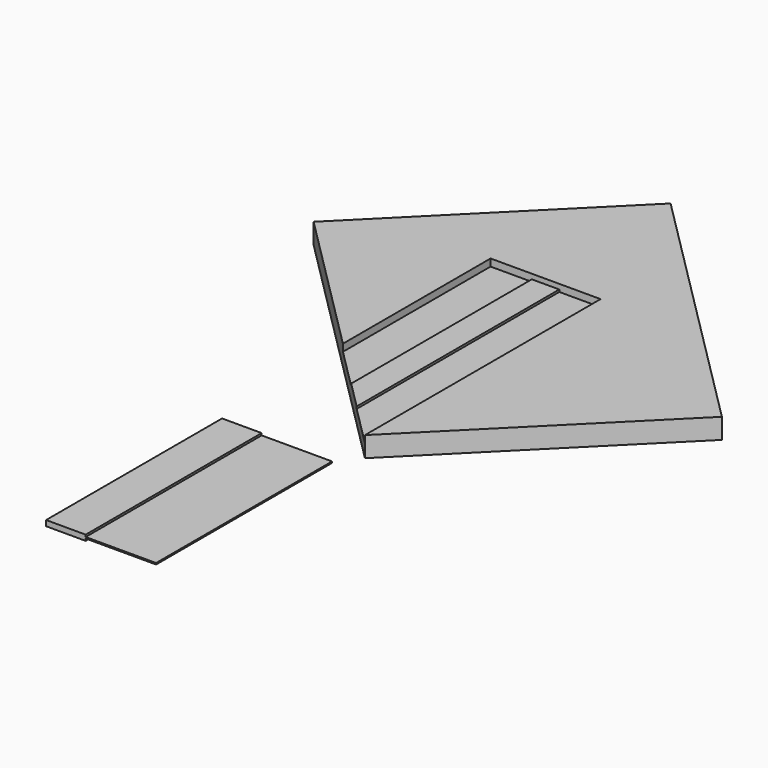
from build123d import *

# Parameters (mm, degrees)
F1_W          = 7.2
F1_H          = 40
F3_DEPTH      = 0.5
F3_DEPTH_BACK = 0.5
F2_W          = 12.8
F2_H          = 40
F4_DEPTH      = 0.125
F4_DEPTH_BACK = 0.125
F6_DEPTH      = 2.4
F6_DEPTH_BACK = 1.3
F8_DEPTH      = 1.3
F10_DEPTH     = 0.4


with BuildPart() as f3:
    # F1 (on Top) → F3 (new body, two sides)
    with BuildSketch(Plane.XY) as f3_sk:
        with Locations((-16.4, -43.0259331628)):
            Rectangle(F1_W, F1_H)
    extrude(amount=F3_DEPTH)
    extrude(f3_sk.sketch, amount=-F3_DEPTH_BACK)

    # F2 (on Top) → F4 (join, two sides)
    with BuildSketch(Plane.XY) as f4_sk:
        with Locations((-6.4, -43.0259331628)):
            Rectangle(F2_W, F2_H)
    extrude(amount=F4_DEPTH)
    extrude(f4_sk.sketch, amount=-F4_DEPTH_BACK)


with BuildPart() as f6:
    # F5 (on Top) → F6 (new body, two sides)
    with BuildSketch(Plane.XY) as f6_sk:
        Polygon((-10.6066017178, 67.1751442127), (-46.6690475583, 31.1126983722), (0, -15.5563491861), (36.0624458405, 20.5060966544), align=None)
    extrude(amount=-F6_DEPTH)
    extrude(f6_sk.sketch, amount=F6_DEPTH_BACK)

    # F7 (on Top) → F8 (cut)
    with BuildSketch(Plane.XY):
        Polygon((0, -15.5563491861), (0, 38), (-20, 38), (-20, 4.4436508139), align=None)
    extrude(amount=F8_DEPTH, mode=Mode.SUBTRACT)

    # F9 (on Top) → F10 (join)
    with BuildSketch(Plane.XY):
        Polygon((-7.5, 38), (-12.5, 38), (-12.5, -3.0563491861), (-7.5, -8.0563491861), align=None)
    extrude(amount=F10_DEPTH)


solid = Compound([f3.part, f6.part])
